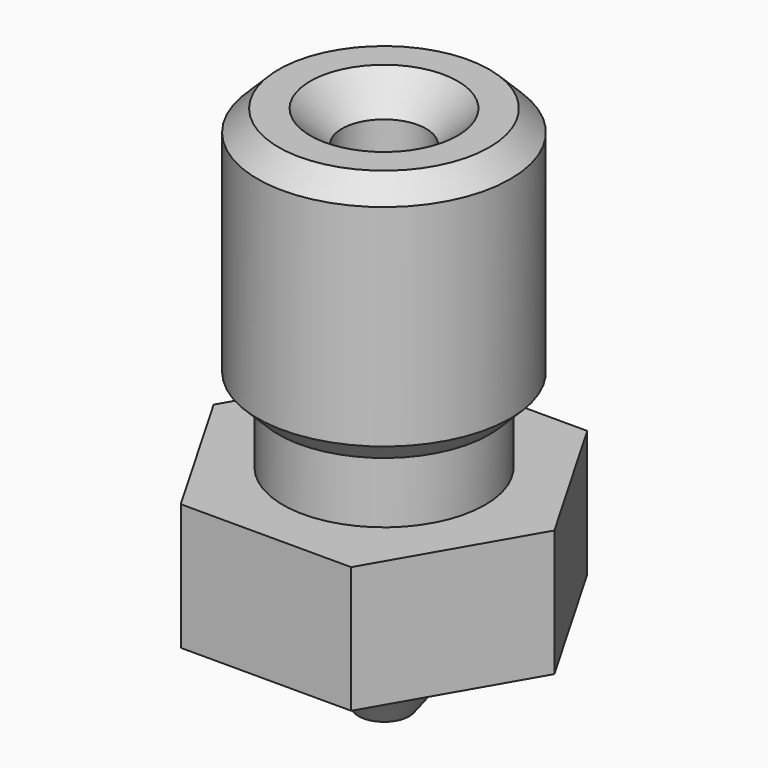
from build123d import *

# Parameters (mm, degrees)
F2_SIZE  = 0.5
F3_SIZE  = 0.75
F4_R     = 5
F5_DEPTH = 10.501


with BuildPart() as f1:
    # F0 (on Front) → F1 (revolve)
    with BuildSketch(Plane.XZ):
        Polygon((0.2, 1.5), (0.2, 0), (0.6, 0), (2.1, 2), (4.2, 2), (4.2, 5), (2.4, 5), (2.4, 6.5), (3, 6.5), (3, 12.5), (1, 12.5), (1, 1.980688), align=None)
    revolve(axis=Axis((0, 0, 6.25), (0, 0, 1)))

    # F2
    f2_edges = [f1.edges().sort_by_distance(p)[0] for p in [
        (-3, 0, 6.5),
        (-3, 0, 12.5),
    ]]
    chamfer(f2_edges, length=F2_SIZE)

    # F3
    f3_edges = [f1.edges().sort_by_distance(p)[0] for p in [
        (-1, 0, 12.5),
    ]]
    chamfer(f3_edges, length=F3_SIZE)

    # F4 (on face) → F5 (cut, through all)
    with BuildSketch(Plane(origin=(0, 0, 2), x_dir=(1, 0, 0), z_dir=(0, 0, -1))):
        Circle(F4_R)
        Polygon((2.020726, -3.5), (-2.020726, -3.5), (-4.041452, 0), (-2.020726, 3.5), (2.020726, 3.5), (4.041452, 0), align=None, mode=Mode.SUBTRACT)
    extrude(amount=-F5_DEPTH, mode=Mode.SUBTRACT)


solid = f1.part
